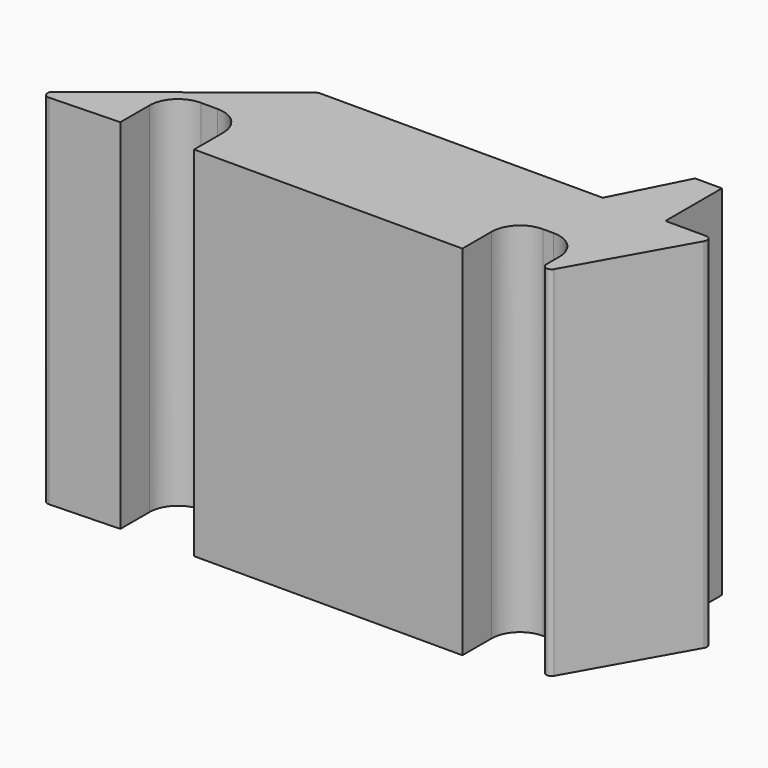
from build123d import *

# Parameters (mm, degrees)
F1_DEPTH = 62.9


with BuildPart() as f1:
    # F0 (on Top) → F1 (new body)
    with BuildSketch(Plane.XY):
        with BuildLine():
            Line((-20.219496, 12.201654), (-48.510314, -10.157217))
            ThreePointArc((-48.510314, -10.157217), (-48.806353, -11.204205), (-47.904387, -11.812713))
            Line((-47.904387, -11.812713), (-35.658325, -11.409449))
            Line((-35.658325, -11.409449), (-35.658325, -5))
            ThreePointArc((-35.658325, -5), (-34.193859, -1.464466), (-30.658325, 0))
            Line((-30.658325, 0), (-27.694882, 0))
            ThreePointArc((-27.694882, 0), (-24.159348, -1.464466), (-22.694882, -5))
            Line((-22.694882, -5), (-22.694882, -11.409449))
            Line((-22.694882, -11.409449), (24.431106, -11.409449))
            Line((24.431106, -11.409449), (24.431106, -5))
            ThreePointArc((24.431106, -5), (25.895572, -1.464466), (29.431106, 0))
            Line((29.431106, 0), (31.336616, 0))
            ThreePointArc((31.336616, 0), (34.87215, -1.464466), (36.336616, -5))
            Line((36.336616, -5), (36.336616, -7.866957))
            ThreePointArc((36.336616, -7.866957), (37.029429, -8.764629), (38.073363, -8.321899))
            Line((38.073363, -8.321899), (48.952437, 11.018672))
            ThreePointArc((48.952437, 11.018672), (48.944673, 11.942092), (48.143649, 12.401575))
            Line((48.143649, 12.401575), (41.049216, 12.401575))
            Line((41.049216, 12.401575), (41.049216, 24.80315))
            Line((41.049216, 24.80315), (36.336616, 24.80315))
            Line((36.336616, 24.80315), (30.033465, 12.401575))
            Line((30.033465, 12.401575), (-19.644111, 12.401575))
            ThreePointArc((-19.644111, 12.401575), (-19.948675, 12.350171), (-20.219496, 12.201654))
        make_face()
    extrude(amount=F1_DEPTH)


solid = f1.part
